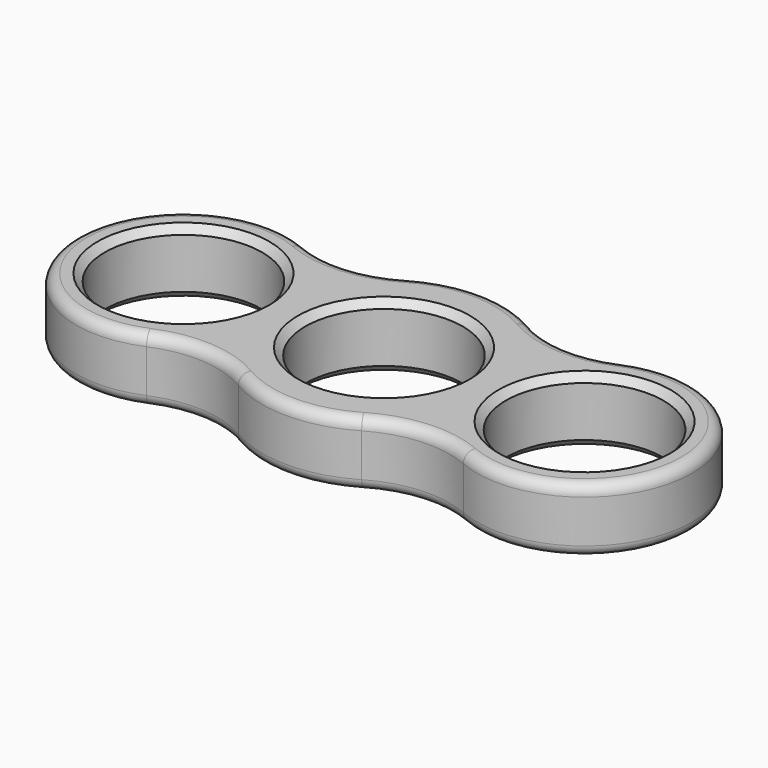
from build123d import *

# Parameters (mm, degrees)
F0_R     = 11
F1_DEPTH = 9
F2_R     = 1.5
F3_SIZE  = 1


with BuildPart() as f1:
    # F0 (on Top) → F1 (new body)
    with BuildSketch(Plane.XY):
        with BuildLine():
            ThreePointArc((-8.613839, 14.656117), (-15.257844, 12.618509), (-22.107143, 13.793993))
            ThreePointArc((-22.107143, 13.793993), (-43, 0), (-22.107143, -13.793993))
            ThreePointArc((-22.107143, -13.793993), (-15.257844, -12.618509), (-8.613839, -14.656117))
            ThreePointArc((-8.613839, -14.656117), (0, -17), (8.613839, -14.656117))
            ThreePointArc((8.613839, -14.656117), (15.257844, -12.618509), (22.107143, -13.793993))
            ThreePointArc((22.107143, -13.793993), (43, 0), (22.107143, 13.793993))
            ThreePointArc((22.107143, 13.793993), (15.257844, 12.618509), (8.613839, 14.656117))
            ThreePointArc((8.613839, 14.656117), (0, 17), (-8.613839, 14.656117))
        make_face()
        with Locations((-28, 0)):
            Circle(F0_R, mode=Mode.SUBTRACT)
        Circle(F0_R, mode=Mode.SUBTRACT)
        with Locations((28, 0)):
            Circle(F0_R, mode=Mode.SUBTRACT)
    extrude(amount=F1_DEPTH)

    # F2
    f2_edges = [f1.edges().sort_by_distance(p)[0] for p in [
        (0, 17, 0),
        (0, 17, 9),
    ]]
    fillet(f2_edges, radius=F2_R)

    # F3
    f3_edges = [f1.edges().sort_by_distance(p)[0] for p in [
        (-17, 0, 4.5),
        (-39, 0, 0),
        (-39, 0, 9),
        (11, 0, 4.5),
        (-11, 0, 0),
        (-11, 0, 9),
        (39, 0, 4.5),
        (17, 0, 0),
        (17, 0, 9),
    ]]
    chamfer(f3_edges, length=F3_SIZE)


solid = f1.part
